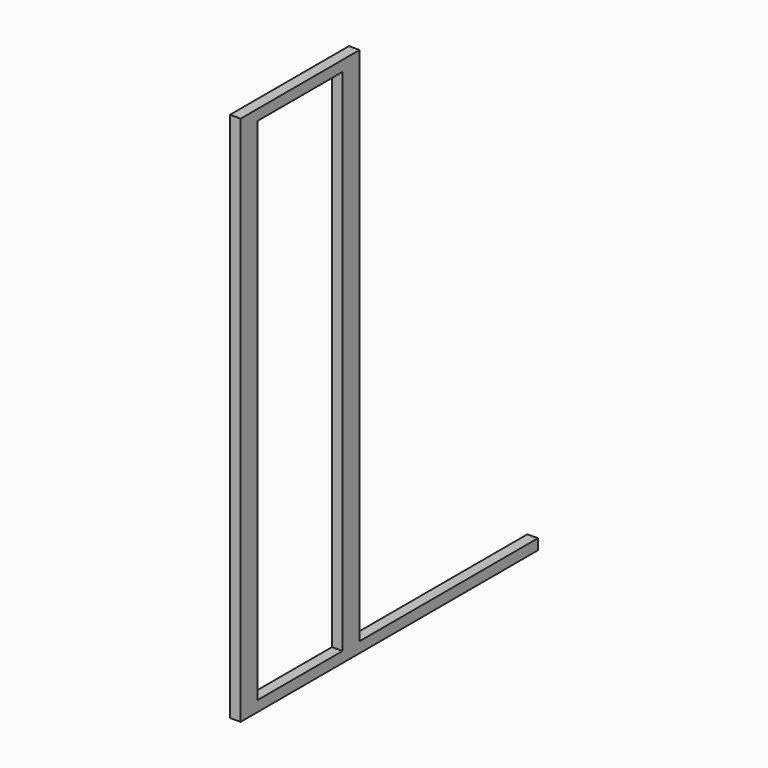
from build123d import *

# Parameters (mm, degrees)
F0_W     = 50.8
F0_H     = 1219.2
F1_DEPTH = 25.4


with BuildPart() as f1:
    # F0 (on Right) → F1 (new body)
    with BuildSketch(Plane.YZ):
        Polygon((350.804755, -361.721163), (350.804755, -336.321163), (-182.595245, -336.321163), (-233.395245, -336.321163), (-487.395245, -336.321163), (-538.195245, -336.321163), (-538.195245, -361.721163), align=None)
        with Locations((-207.995245, 273.278837)):
            Rectangle(F0_W, F0_H)
        Polygon((-233.395245, 882.878837), (-182.595245, 882.878837), (-182.595245, 908.278837), (-538.195245, 908.278837), (-538.195245, 882.878837), (-487.395245, 882.878837), align=None)
        with Locations((-512.795245, 273.278837)):
            Rectangle(F0_W, F0_H)
    extrude(amount=F1_DEPTH)


solid = f1.part
